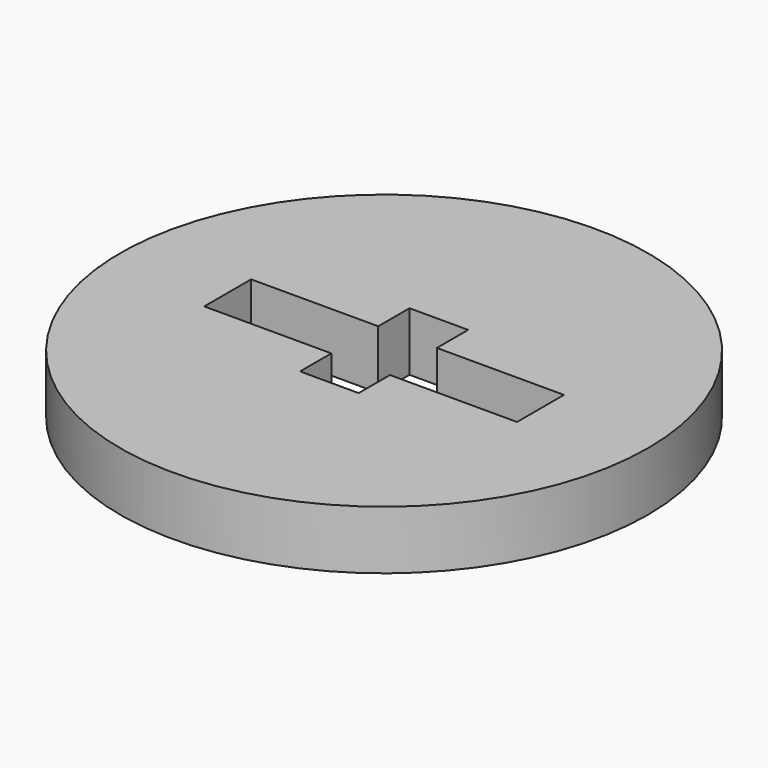
from build123d import *

# Parameters (mm, degrees)
F0_R     = 13.5
F1_DEPTH = 3


with BuildPart() as f1:
    # F0 (on Top) → F1 (new body)
    with BuildSketch(Plane.XY):
        Circle(F0_R)
        Polygon((-1.5, 1.5), (-1.5, 3.5), (1.5, 3.5), (1.5, 1.5), (8, 1.5), (8, -1.5), (1.5, -1.5), (1.5, -3.5), (-1.5, -3.5), (-1.5, -1.5), (-8, -1.5), (-8, 1.5), align=None, mode=Mode.SUBTRACT)
    extrude(amount=F1_DEPTH)


solid = f1.part
